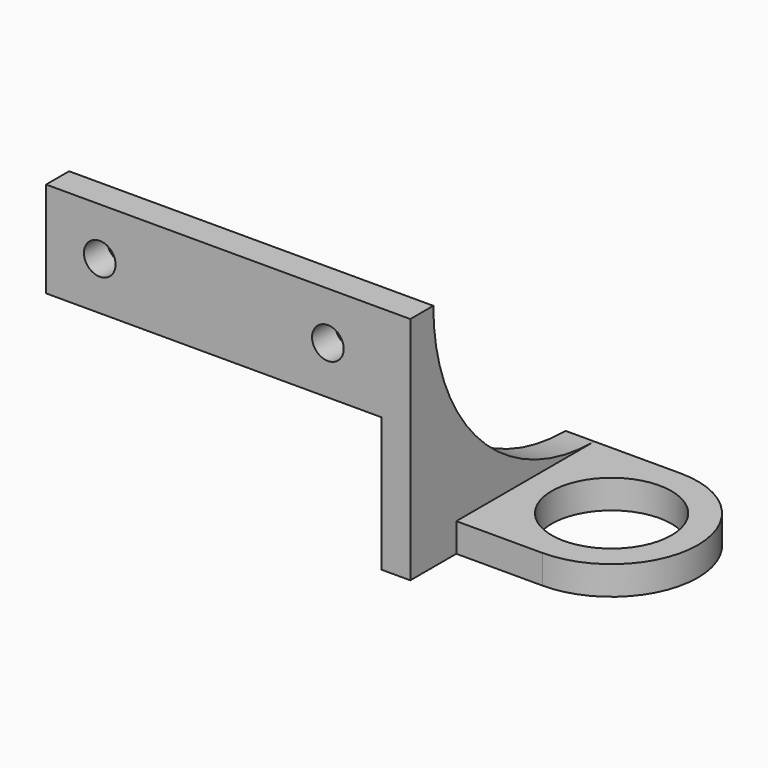
from build123d import *

# Parameters (mm, degrees)
F0_W     = 35
F0_H     = 10
F0_R     = 1.65
F1_DEPTH = 3
F2_W     = 24
F2_H     = 24
F3_DEPTH = 3
F4_R     = 6.25
F5_DEPTH = 3
F6_R     = 21
F7_DEPTH = 3


with BuildPart() as f1:
    # F0 (on Front) → F1 (new body)
    with BuildSketch(Plane.XZ):
        Rectangle(F0_W, F0_H)
        with Locations((-11.9, 0)):
            Circle(F0_R, mode=Mode.SUBTRACT)
        with Locations((11.9, 0)):
            Circle(F0_R, mode=Mode.SUBTRACT)
    extrude(amount=F1_DEPTH)

    # F2 (on face) → F3 (join)
    with BuildSketch(Plane.YZ.offset(17.5)):
        with Locations((9, -7)):
            Rectangle(F2_W, F2_H)
    extrude(amount=F3_DEPTH)

    # F4 (on face) → F5 (join)
    with BuildSketch(Plane(origin=(0, 0, -19), x_dir=(1, 0, 0), z_dir=(0, 0, -1))):
        with BuildLine():
            Line((20.5, -21), (29.5, -21))
            ThreePointArc((29.5, -21), (38.5, -12), (29.5, -3))
            Line((29.5, -3), (20.5, -3))
            Line((20.5, -3), (20.5, -21))
        make_face()
        with Locations((29.5, -12)):
            Circle(F4_R, mode=Mode.SUBTRACT)
    extrude(amount=-F5_DEPTH)

    # F6 (on face) → F7 (cut)
    with BuildSketch(Plane.YZ.offset(20.5)):
        with Locations((21, 5)):
            Circle(F6_R)
    extrude(amount=-F7_DEPTH, mode=Mode.SUBTRACT)


solid = f1.part
